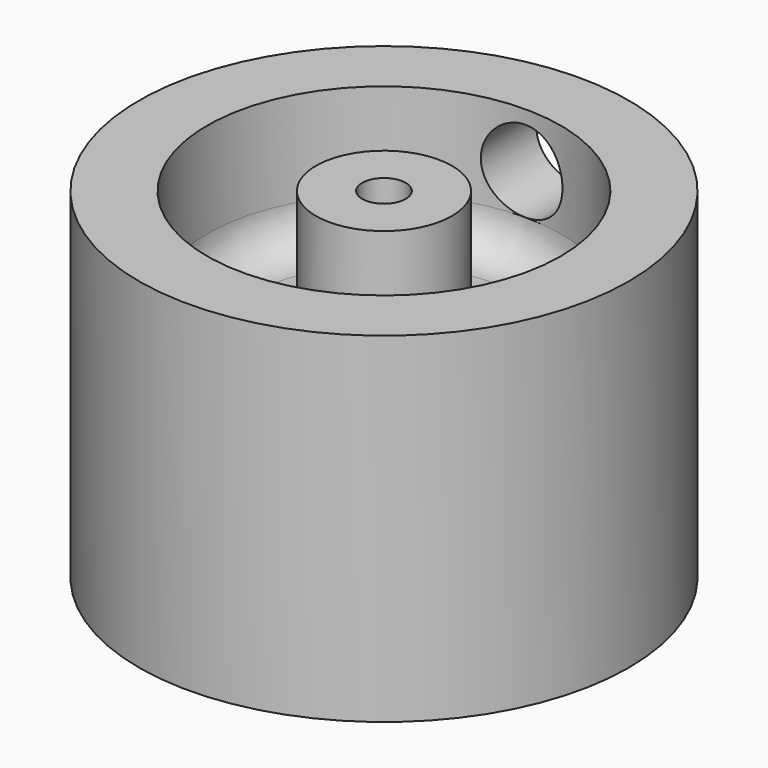
from build123d import *

# Parameters (mm, degrees)
CYLINDER001_R     = 3
CYLINDER001_DEPTH = 9
CYLINDER_R        = 2.2
CYLINDER_DEPTH    = 9
SKETCH_R          = 18
PAD_DEPTH         = 25
SKETCH001_R       = 13
SKETCH001_R_2     = 5
POCKET_DEPTH      = 10
SKETCH002_R       = 13
POCKET001_DEPTH   = 12
SKETCH003_R       = 1.6
POCKET002_DEPTH   = 13
FILLET_R          = 3


with BuildPart() as cilindro001:
    # Cylinder001 → Cylinder001 (new body)
    with BuildSketch(Plane(origin=(0, 20, 21), x_dir=(1, 0, 0), z_dir=(0, -1, 0))):
        Circle(CYLINDER001_R)
    extrude(amount=CYLINDER001_DEPTH)


with BuildPart() as cilindro:
    # Cylinder → Cylinder (new body)
    with BuildSketch(Plane(origin=(0, 9, 21), x_dir=(1, 0, 0), z_dir=(0, -1, 0))):
        Circle(CYLINDER_R)
    extrude(amount=CYLINDER_DEPTH)


with BuildPart() as cut001:
    # Sketch → Pad (new body)
    with BuildSketch(Plane.XY):
        Circle(SKETCH_R)
    extrude(amount=PAD_DEPTH)

    # Sketch001 (on Face3 of Pad) → Pocket (cut)
    with BuildSketch(Plane.XY.offset(25)):
        Circle(SKETCH001_R)
        Circle(SKETCH001_R_2, mode=Mode.SUBTRACT)
    extrude(amount=-POCKET_DEPTH, mode=Mode.SUBTRACT)

    # Sketch002 (on Face2 of Pocket) → Pocket001 (cut)
    with BuildSketch(Plane(origin=(0, 0, 0), x_dir=(1, 0, 0), z_dir=(0, 0, -1))):
        Circle(SKETCH002_R)
    extrude(amount=-POCKET001_DEPTH, mode=Mode.SUBTRACT)

    # Sketch003 (on Face9 of Pocket001) → Pocket002 (cut)
    with BuildSketch(Plane.XY.offset(25)):
        Circle(SKETCH003_R)
    extrude(amount=-POCKET002_DEPTH, mode=Mode.SUBTRACT)

    # Fillet
    fillet_edges = [cut001.edges().sort_by_distance(p)[0] for p in [
        (-5, 0, 15),
        (-13, 0, 15),
        (-13, 0, 12),
    ]]
    fillet(fillet_edges, radius=FILLET_R)

    # Cut: cut Cilindro
    add(cilindro.part, mode=Mode.SUBTRACT)

    # Cut001: cut Cilindro001
    add(cilindro001.part, mode=Mode.SUBTRACT)


solid = cut001.part
